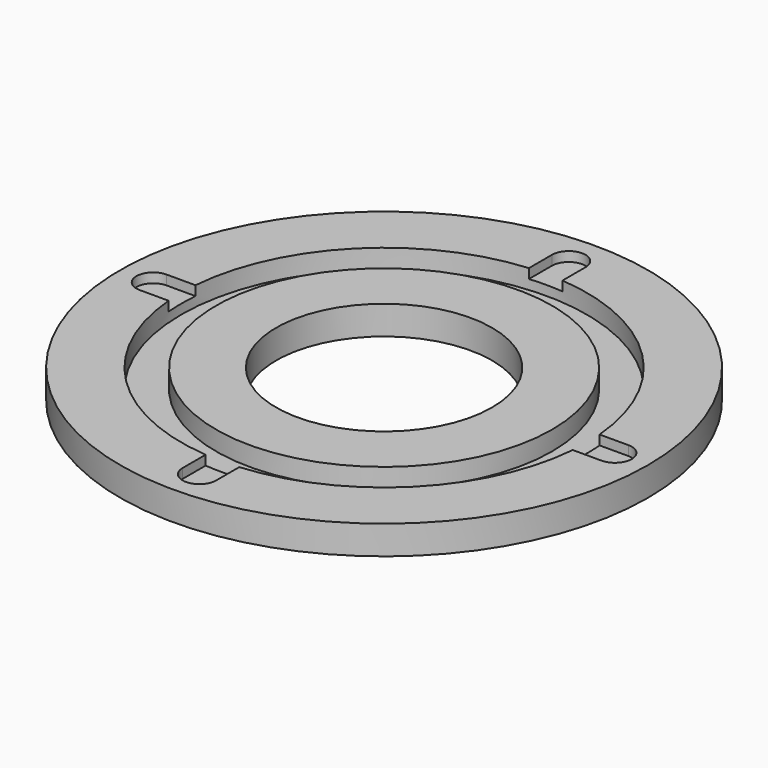
from build123d import *

# Parameters (mm, degrees)
F0_R     = 55
F1_DEPTH = 6
F2_R     = 42.25
F2_R_2   = 35
F3_DEPTH = 4
F5_DEPTH = 2
F6_R     = 22.5
F7_DEPTH = 6.001


with BuildPart() as f1:
    # F0 (on Top) → F1 (new body)
    with BuildSketch(Plane.XY):
        Circle(F0_R)
    extrude(amount=F1_DEPTH)

    # F2 (on face) → F3 (cut)
    with BuildSketch(Plane.XY.offset(6)):
        Circle(F2_R)
        Circle(F2_R_2, mode=Mode.SUBTRACT)
    extrude(amount=-F3_DEPTH, mode=Mode.SUBTRACT)

    # F4 (on face) → F5 (cut)
    with BuildSketch(Plane.XY.offset(6)):
        with BuildLine():
            Line((-3.5, 48.10478), (-3.5, 42.10478))
            ThreePointArc((-3.5, 42.10478), (0, 42.25), (3.5, 42.10478))
            Line((3.5, 42.10478), (3.5, 48.10478))
            ThreePointArc((3.5, 48.10478), (0, 51.60478), (-3.5, 48.10478))
        make_face()
        with BuildLine():
            Line((-48.10478, -3.5), (-42.10478, -3.5))
            ThreePointArc((-42.10478, -3.5), (-42.25, 0), (-42.10478, 3.5))
            Line((-42.10478, 3.5), (-48.10478, 3.5))
            ThreePointArc((-48.10478, 3.5), (-51.60478, 0), (-48.10478, -3.5))
        make_face()
        with BuildLine():
            Line((3.5, -48.10478), (3.5, -42.10478))
            ThreePointArc((3.5, -42.10478), (0, -42.25), (-3.5, -42.10478))
            Line((-3.5, -42.10478), (-3.5, -48.10478))
            ThreePointArc((-3.5, -48.10478), (0, -51.60478), (3.5, -48.10478))
        make_face()
        with BuildLine():
            Line((48.10478, 3.5), (42.10478, 3.5))
            ThreePointArc((42.10478, 3.5), (42.25, 0), (42.10478, -3.5))
            Line((42.10478, -3.5), (48.10478, -3.5))
            ThreePointArc((48.10478, -3.5), (51.60478, 0), (48.10478, 3.5))
        make_face()
    extrude(amount=-F5_DEPTH, mode=Mode.SUBTRACT)

    # F6 (on face) → F7 (cut, through all)
    with BuildSketch(Plane.XY.offset(6)):
        Circle(F6_R)
    extrude(amount=-F7_DEPTH, mode=Mode.SUBTRACT)


solid = f1.part
